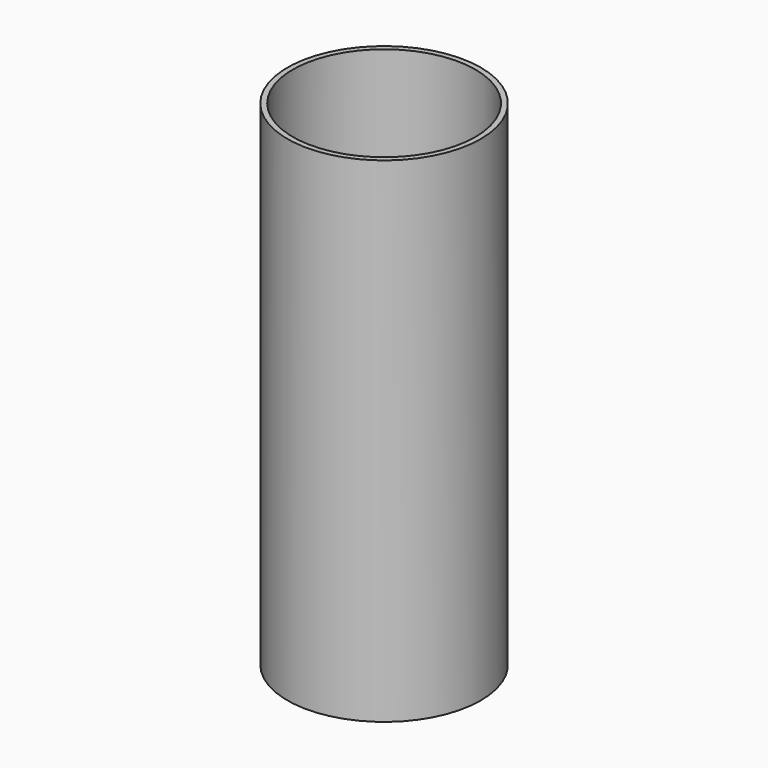
from build123d import *

# Parameters (mm, degrees)
SKETCH_R   = 7.15
SKETCH_R_2 = 6.75
PAD_DEPTH  = 36.55


with BuildPart() as part:
    # Sketch → Pad (new body)
    with BuildSketch(Plane.XY):
        Circle(SKETCH_R)
        Circle(SKETCH_R_2, mode=Mode.SUBTRACT)
    extrude(amount=PAD_DEPTH)


solid = part.part
